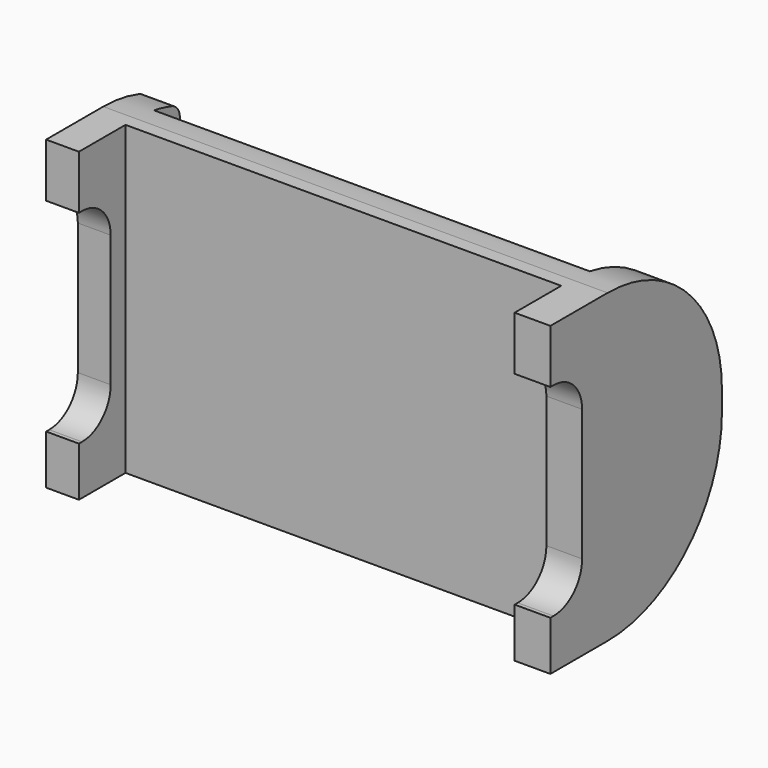
from build123d import *

# Parameters (mm, degrees)
F1_DEPTH = 108.8898
F2_R     = 50.8
F3_R     = 5.08
F5_DEPTH = 635


with BuildPart() as f1:
    # F0 (on Top) → F1 (new body)
    with BuildSketch(Plane.XY):
        Polygon((76.2579515576, 19.2914448351), (-78.5804484424, 19.2914448351), (-78.5804484424, 30.7262744755), (-90.2520939708, 30.7262744755), (-90.2520939708, -14.095553197), (-78.5804484424, -14.095553197), (-78.5804484424, 6.5914448351), (76.2579515576, 6.5914448351), (76.2579515576, -14.095553197), (88.9579515576, -14.095553197), (88.9579515576, 62.104446803), (76.2579515576, 62.104446803), align=None)
    extrude(amount=F1_DEPTH)

    # F2
    f2_edges = [f1.edges().sort_by_distance(p)[0] for p in [
        (82.607952, 62.104447, 108.8898),
        (82.607952, 62.104447, 0),
    ]]
    fillet(f2_edges, radius=F2_R)

    # F3
    f3_edges = [f1.edges().sort_by_distance(p)[0] for p in [
        (-84.416271, 30.726274, 105.030535),
        (-84.416271, 30.726274, 3.859265),
    ]]
    fillet(f3_edges, radius=F3_R)

    # F4 (on Right) → F5 (cut, symmetric)
    with BuildSketch(Plane.YZ):
        with BuildLine():
            ThreePointArc((0, 77.0634550929), (-3.7197438789, 86.043711214), (-12.7, 89.7634550929))
            Line((-12.7, 89.7634550929), (-24.0334216505, 89.7634550929))
            Line((-24.0334216505, 89.7634550929), (-24.0334216505, 17.5617840141))
            Line((-24.0334216505, 17.5617840141), (-12.7, 17.5617840141))
            ThreePointArc((-12.7, 17.5617840141), (-3.7197438789, 21.281527893), (0, 30.2617840141))
            Line((0, 30.2617840141), (0, 77.0634550929))
        make_face()
    extrude(amount=F5_DEPTH, both=True, mode=Mode.SUBTRACT)


solid = f1.part
